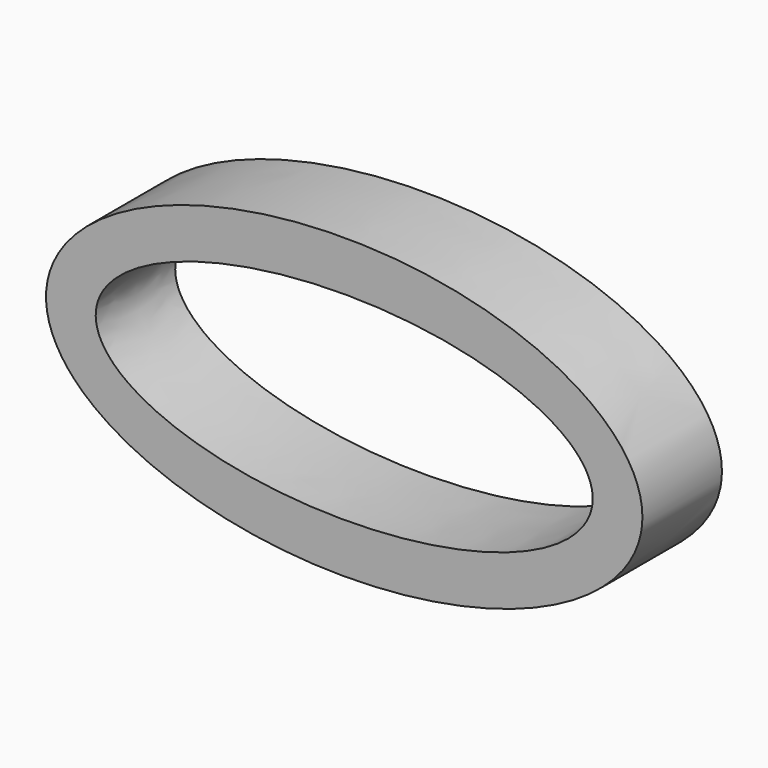
from build123d import *

# Parameters (mm, degrees)
F1_DEPTH = 25.4
F3_DEPTH = 25.4010001


with BuildPart() as f1:
    # F0 (on Front) → F1 (new body)
    with BuildSketch(Plane.XZ):
        with BuildLine():
            add(Edge.make_bspline(
                [(51.7664076656, 7.310050074), (51.7664076656, 73.3011858424), (-62.5335923344, 40.3056179582), (-176.8335923344, 7.310050074), (-62.5335923344, -25.6855178102), (51.7664076656, -58.6810856944), (51.7664076656, 7.310050074)],
                knots=[0, 0, 0, 2.0943951024, 2.0943951024, 4.1887902048, 4.1887902048, 6.2831853072, 6.2831853072, 6.2831853072], degree=2, weights=[1, 0.5, 1, 0.5, 1, 0.5, 1]))
        make_face()
    extrude(amount=F1_DEPTH)

    # F2 (on face) → F3 (cut, through all)
    with BuildSketch(Plane.XZ.offset(25.4)):
        with BuildLine():
            add(Edge.make_bspline(
                [(39.0664076656, 7.310050074), (39.0664076656, 51.3041405863), (-56.1835923344, 29.3070953301), (-151.4335923344, 7.310050074), (-56.1835923344, -14.6869951821), (39.0664076656, -36.6840404382), (39.0664076656, 7.310050074)],
                knots=[0, 0, 0, 2.0943951024, 2.0943951024, 4.1887902048, 4.1887902048, 6.2831853072, 6.2831853072, 6.2831853072], degree=2, weights=[1, 0.5, 1, 0.5, 1, 0.5, 1]))
        make_face()
    extrude(amount=-F3_DEPTH, mode=Mode.SUBTRACT)


solid = f1.part
